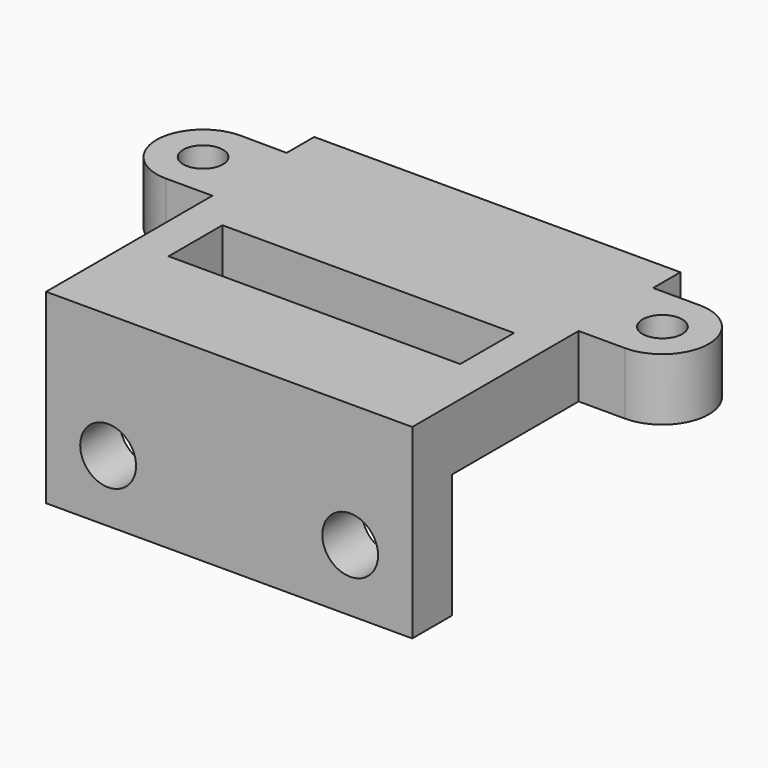
from build123d import *

# Parameters (mm, degrees)
F0_R     = 1.6
F1_DEPTH = 5
F2_W     = 29.5
F2_H     = 5
F3_DEPTH = 10
F4_W     = 29.5
F4_H     = 15
F5_DEPTH = 4
F6_R     = 2.25
F7_DEPTH = 25
F8_W     = 23.5
F8_H     = 5.420308
F9_DEPTH = 25


with BuildPart() as f1:
    # F0 (on Top) → F1 (new body)
    with BuildSketch(Plane.XY):
        with BuildLine():
            Line((14.75, 6.5), (-14.75, 6.5))
            Line((-14.75, 6.5), (-14.75, 3.725468))
            Line((-14.75, 3.725468), (-14.75, -3.75))
            Line((-14.75, -3.75), (-14.75, -6.5))
            Line((-14.75, -6.5), (14.75, -6.5))
            Line((14.75, -6.5), (14.75, -3.75))
            Line((14.75, -3.75), (18.5, -3.75))
            ThreePointArc((18.5, -3.75), (22.25, 0), (18.5, 3.75))
            Line((18.5, 3.75), (14.75, 3.75))
            Line((14.75, 3.75), (14.75, 6.5))
        make_face()
        with Locations((18.5, 0)):
            Circle(F0_R, mode=Mode.SUBTRACT)
        with BuildLine():
            Line((-14.75, -3.75), (-14.75, 3.725468))
            Line((-14.75, 3.725468), (-18.475388, 3.749919))
            ThreePointArc((-18.475388, 3.749919), (-22.24998, 0.012306), (-18.5, -3.75))
            Line((-18.5, -3.75), (-14.75, -3.75))
        make_face()
        with Locations((-18.5, 0)):
            Circle(F0_R, mode=Mode.SUBTRACT)
    extrude(amount=F1_DEPTH)

    # F2 (on face) → F3 (join)
    with BuildSketch(Plane.XZ.offset(6.5)):
        with Locations((0, 2.5)):
            Rectangle(F2_W, F2_H)
    extrude(amount=F3_DEPTH)

    # F4 (on face) → F5 (join)
    with BuildSketch(Plane.XZ.offset(16.5)):
        with Locations((0, -2.5)):
            Rectangle(F4_W, F4_H)
    extrude(amount=F5_DEPTH)

    # F6 (on face) → F7 (cut)
    with BuildSketch(Plane(origin=(0, -16.5, 0), x_dir=(-1, 0, 0), z_dir=(0, 1, 0))):
        with Locations((-9.75, -5)):
            Circle(F6_R)
        with Locations((9.75, -5)):
            Circle(F6_R)
    extrude(amount=-F7_DEPTH, mode=Mode.SUBTRACT)

    # F8 (on face) → F9 (cut)
    with BuildSketch(Plane(origin=(0, 0, 0), x_dir=(1, 0, 0), z_dir=(0, 0, -1))):
        with Locations((0, 9.210154)):
            Rectangle(F8_W, F8_H)
    extrude(amount=-F9_DEPTH, mode=Mode.SUBTRACT)


solid = f1.part
